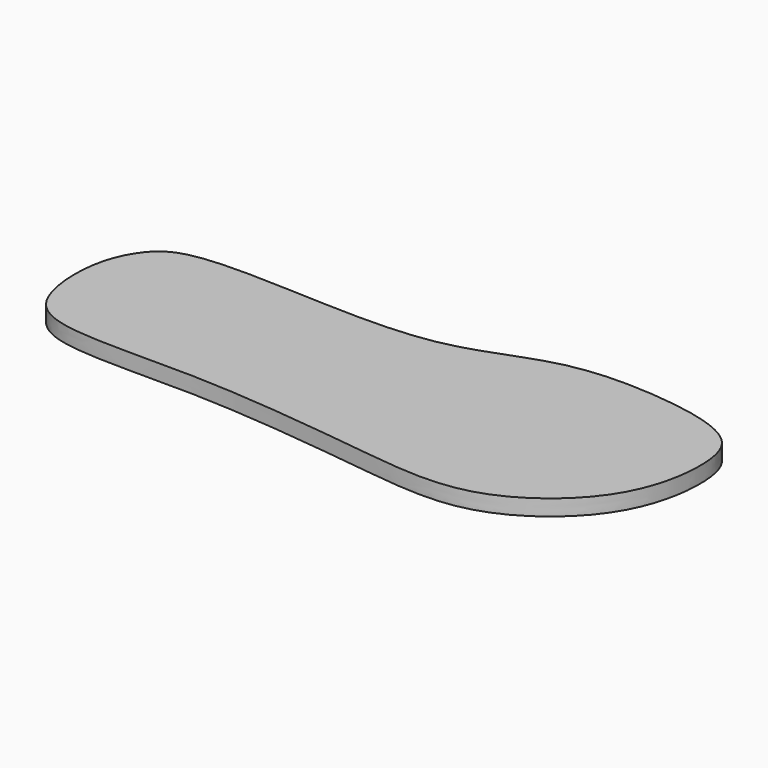
from build123d import *

# Parameters (mm, degrees)
F1_DEPTH = 8


with BuildPart() as f1:
    # F0 (on Top) → F1 (new body)
    with BuildSketch(Plane.XY):
        with BuildLine():
            add(Edge.make_bspline(
                [(-59.4979971647, 35.3376679122), (-80.6486302351, 36.1842429554), (-111.5744887258, 36.9809661518), (-126.3804683141, 24.6892837403), (-135.6853808945, 4.8358627734), (-133.8960089838, -29.243390638), (-113.7227565964, -47.586254176), (-41.9814634828, -42.6136872988), (44.9356744987, -53.2769824183), (104.9193707136, -60.9729161122), (154.0152247351, -22.5479357254), (161.1323544609, 22.4898976978), (152.7711146094, 48.508286165), (103.4665298556, 57.0755592199), (58.3840136685, 55.0489383428), (13.9551567869, 31.6826812068), (-34.5229599932, 34.338017306), (-59.4979971647, 35.3376679122)],
                knots=[0, 0, 0, 0, 0.0727788547, 0.1133462535, 0.1594541615, 0.2162518902, 0.2636811215, 0.3470783782, 0.4433636186, 0.5200822467, 0.5951927323, 0.6608462692, 0.7085676549, 0.7763862058, 0.8444216395, 0.9140614564, 1, 1, 1, 1], degree=3))
        make_face()
    extrude(amount=-F1_DEPTH)


solid = f1.part
